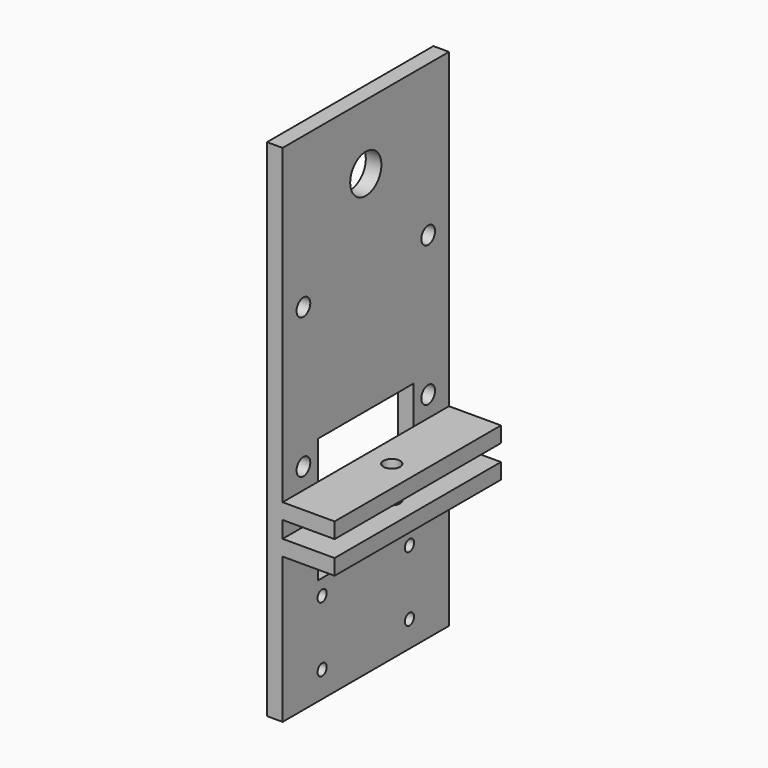
from build123d import *

# Parameters (mm, degrees)
PAD_DEPTH       = 20
SKETCH001_R     = 1.6
POCKET_DEPTH    = 37.201
SKETCH002_R     = 1.1
SKETCH002_W     = 20
SKETCH002_H     = 23
POCKET001_DEPTH = 3.001
SKETCH003_R     = 1.65
SKETCH003_W     = 4
SKETCH003_H     = 23
POCKET002_DEPTH = 3.001
SKETCH004_W     = 25
SKETCH004_H     = 40
SKETCH004_R     = 3.75
PAD001_DEPTH    = 3


with BuildPart() as part:
    # Sketch → Pad (new body, symmetric)
    with BuildSketch(Plane.XZ):
        Polygon((-3, 39.6), (0, 39.6), (0, 4.6), (10, 4.6), (10, 1.6), (0, 1.6), (0, 0), (0, -1.6), (10, -1.6), (10, -4.6), (0, -4.6), (0, -32.6), (-3, -32.6), align=None)
    extrude(amount=PAD_DEPTH, both=True)

    # Sketch001 (on Face9 of Pad) → Pocket (cut, through all)
    with BuildSketch(Plane(origin=(0, 0, 4.6), x_dir=(-1, 0, 0), z_dir=(0, 0, 1))):
        with Locations((-5, 0)):
            Circle(SKETCH001_R)
    extrude(amount=-POCKET_DEPTH, mode=Mode.SUBTRACT)

    # Sketch002 (on Face13 of Pocket) → Pocket001 (cut, through all)
    with BuildSketch(Plane(origin=(0, 0, 0), x_dir=(0, 0, 1), z_dir=(1, 0, 0))):
        with Locations((-27.6, 10.5)):
            Circle(SKETCH002_R)
        with Locations((-15.1, 10.5)):
            Circle(SKETCH002_R)
        with Locations((-27.6, -10.5)):
            Circle(SKETCH002_R)
        with Locations((-15.1, -10.5)):
            Circle(SKETCH002_R)
        with Locations((-2.1, 0)):
            Rectangle(SKETCH002_W, SKETCH002_H)
    extrude(amount=-POCKET001_DEPTH, mode=Mode.SUBTRACT)

    # Sketch003 (on Face14 of Pocket001) → Pocket002 (cut, through all)
    with BuildSketch(Plane(origin=(0, 0, 0), x_dir=(0, 0, 1), z_dir=(1, 0, 0))):
        with Locations((8.6, 15)):
            Circle(SKETCH003_R)
        with Locations((35.6, 15)):
            Circle(SKETCH003_R)
        with Locations((35.6, -15)):
            Circle(SKETCH003_R)
        with Locations((8.6, -15)):
            Circle(SKETCH003_R)
        with Locations((9.9, 0)):
            Rectangle(SKETCH003_W, SKETCH003_H)
    extrude(amount=-POCKET002_DEPTH, mode=Mode.SUBTRACT)

    # Sketch004 (on Face12 of Pocket002) → Pad001 (join)
    with BuildSketch(Plane(origin=(0, 0, 0), x_dir=(0, 0, 1), z_dir=(1, 0, 0))):
        with Locations((52.1, 0)):
            Rectangle(SKETCH004_W, SKETCH004_H)
        with Locations((52.1, 0)):
            Circle(SKETCH004_R, mode=Mode.SUBTRACT)
    extrude(amount=-PAD001_DEPTH)


solid = part.part
